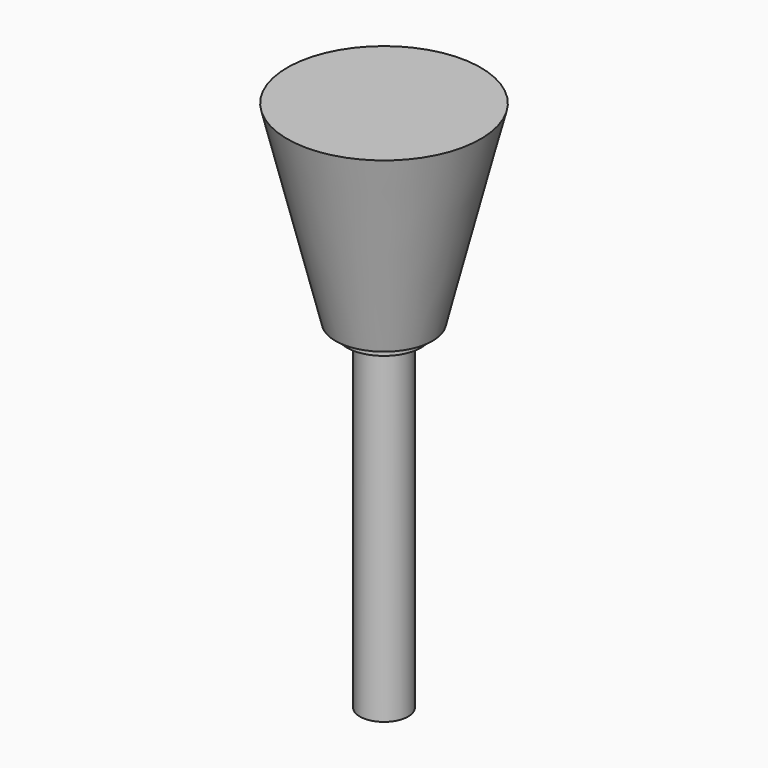
from build123d import *

# Parameters (mm, degrees)
F2_W = 10.944133
F2_H = 43.18


with BuildPart() as f1:
    # F0 (on Right) → F1 (revolve)
    with BuildSketch(Plane.YZ):
        with BuildLine():
            Line((0, 25.4), (-12.7, 25.4))
            Line((-12.7, 25.4), (-6.367069, 0))
            Line((-6.367069, 0), (-4.843069, 0))
            ThreePointArc((-4.843069, 0), (-5.221683, -5.357895), (-6.35, -10.609304))
            Line((-6.35, -10.609304), (-6.35, -44.45))
            Line((-6.35, -44.45), (0, -44.45))
            Line((0, -44.45), (0, 25.4))
        make_face()
    revolve(axis=Axis((0, 0, -9.525), (0, 0, -1)))

    # F2 (on Right) → F3 (revolve, cut)
    with BuildSketch(Plane.YZ):
        with Locations((-8.647066, -22.86)):
            Rectangle(F2_W, F2_H)
    revolve(axis=Axis((0, 0, -9.525), (0, 0, -1)), mode=Mode.SUBTRACT)


solid = f1.part
